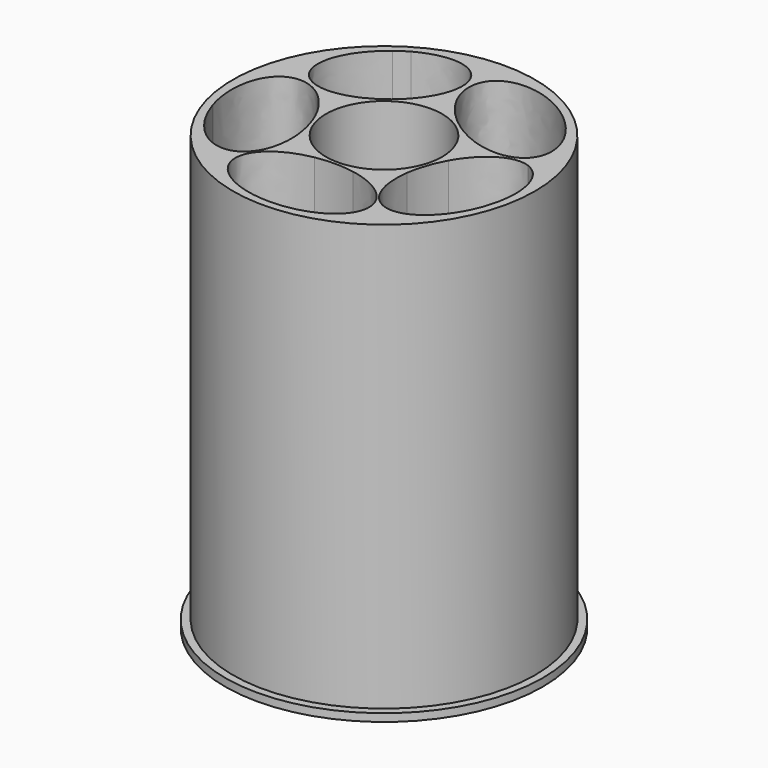
from build123d import *

# Parameters (mm, degrees)
F0_R     = 24.765
F0_R_2   = 9.525
F1_DEPTH = 69.85
F0_R_3   = 26.035
F2_DEPTH = 1.27


with BuildPart() as f1:
    # F0 (on Top) → F1 (new body)
    with BuildSketch(Plane.XY):
        Circle(F0_R)
        with BuildLine():
            ThreePointArc((-11.8438762985, 20.2913188143), (11.6992126095, 20.3750693083), (23.495, 0))
            ThreePointArc((23.495, 0), (23.3464270493, -2.6380616054), (22.9025872284, -5.242759125))
            add(Edge.make_bspline(
                [(22.3450728504, -7.2603542828), (22.6874542509, -6.2617589103), (22.9025872284, -5.242759125)],
                knots=[4.7287748222, 4.7287748222, 4.7287748222, 4.9233419702, 4.9233419702, 4.9233419702], degree=2, weights=[1, 0.995271684, 1]))
            ThreePointArc((22.3450728504, -7.2603542828), (13.8100144344, -19.0078543324), (-1.686e-07, -23.495))
            ThreePointArc((-1.686e-07, -23.495), (-13.8100145708, -19.0078542333), (-22.3450728504, -7.2603542828))
            ThreePointArc((-22.3450728504, -7.2603542828), (-22.3838222656, -7.1399948026), (-22.4219233818, -7.0194285279))
            ThreePointArc((-22.4219233818, -7.0194285279), (-22.3056762584, 7.3805034826), (-13.8100145026, 19.0078542828))
            add(Edge.make_bspline(
                [(-11.8438762985, 20.2913188143), (-12.8657967174, 19.7291263408), (-13.8100145026, 19.0078542828)],
                knots=[4.458011637, 4.458011637, 4.458011637, 4.6856427133, 4.6856427133, 4.6856427133], degree=2, weights=[1, 0.9935300005, 1]))
        make_face(mode=Mode.SUBTRACT)
        with BuildLine():
            ThreePointArc((-22.3450728504, -7.2603542828), (-13.8100145708, -19.0078542333), (-1.686e-07, -23.495))
            add(Edge.make_bspline(
                [(-3.16679104, -10.3200513327), (-12.2250157711, -11.998778469), (-10.8433736094, -17.7468891898), (-9.4617314476, -23.4949999106), (-1.686e-07, -23.495)],
                knots=[1.863892814, 1.863892814, 1.863892814, 3.2881408895, 3.2881408895, 4.712388965, 4.712388965, 4.712388965], degree=2, weights=[1, 0.7569756468, 1, 0.7569756468, 1]))
            ThreePointArc((-3.16679104, -10.3200513327), (-6.3468664898, -8.7320851324), (-8.8388084458, -6.1973776921))
            add(Edge.make_bspline(
                [(-12.569940649, -15.4547831044), (-7.8478387164, -13.9042973621), (-8.8388084458, -6.1973776921)],
                knots=[0, 0, 0, 1.2720675666, 1.2720675666, 1.2720675666], degree=2, weights=[1, 0.8044580494, 1]))
            add(Edge.make_bspline(
                [(-22.3450728504, -7.2603542828), (-18.9773492466, -17.5586334273), (-12.569940649, -15.4547831044)],
                knots=[4.7104616558, 4.7104616558, 4.7104616558, 6.2831853072, 6.2831853072, 6.2831853072], degree=2, weights=[1, 0.7064250408, 1]))
        make_face()
        with BuildLine():
            ThreePointArc((-1.686e-07, -23.495), (13.8100144344, -19.0078543324), (22.3450728504, -7.2603542828))
            add(Edge.make_bspline(
                [(8.7828810696, -6.2763863104), (7.5657386075, -15.1831667899), (13.4507924985, -15.6101408837), (19.3358463895, -16.0371149774), (22.3450728504, -7.2603542828)],
                knots=[1.8928856288, 1.8928856288, 1.8928856288, 3.3108302255, 3.3108302255, 4.7287748222, 4.7287748222, 4.7287748222], degree=2, weights=[1, 0.759031366, 1, 0.759031366, 1]))
            ThreePointArc((8.7828810696, -6.2763863104), (6.3076519074, -8.7604538932), (3.16679104, -10.3200513327))
            add(Edge.make_bspline(
                [(10.9608629718, -16.764), (10.9608629718, -11.7644977273), (3.16679104, -10.3200513327)],
                knots=[0, 0, 0, 1.2776998396, 1.2776998396, 1.2776998396], degree=2, weights=[1, 0.8027820499, 1]))
            add(Edge.make_bspline(
                [(-1.686e-07, -23.495), (10.9608629718, -23.4950001035), (10.9608629718, -16.764)],
                knots=[4.712388965, 4.712388965, 4.712388965, 6.2831853072, 6.2831853072, 6.2831853072], degree=2, weights=[1, 0.7071067757, 1]))
        make_face()
        with BuildLine():
            ThreePointArc((3.5063931355, 10.2096636663), (-0.1082951648, 10.7944567792), (-3.7105232282, 10.1372601019))
            add(Edge.make_bspline(
                [(-8.6819299405, 6.415303384), (-5.8376217277, 7.7579870896), (-3.7105232282, 10.1372601019)],
                knots=[1.2256506863, 1.2256506863, 1.2256506863, 1.832563988, 1.832563988, 1.832563988], degree=2, weights=[1, 0.9543092736, 1]))
            ThreePointArc((-8.6819299405, 6.415303384), (-10.285011057, 3.278806575), (-10.7930191038, -0.206793678))
            add(Edge.make_bspline(
                [(-8.8388084458, -6.1973776921), (-9.2475428738, -3.0185889667), (-10.7930191038, -0.206793678)],
                knots=[1.2720675666, 1.2720675666, 1.2720675666, 1.8633349383, 1.8633349383, 1.8633349383], degree=2, weights=[1, 0.9566177125, 1]))
            ThreePointArc((-8.8388084458, -6.1973776921), (-6.3468664898, -8.7320851324), (-3.16679104, -10.3200513327))
            add(Edge.make_bspline(
                [(3.16679104, -10.3200513327), (0, -9.7331617145), (-3.16679104, -10.3200513327)],
                knots=[1.2776998396, 1.2776998396, 1.2776998396, 1.863892814, 1.863892814, 1.863892814], degree=2, weights=[1, 0.9573538356, 1]))
            ThreePointArc((3.16679104, -10.3200513327), (6.3076519074, -8.7604538932), (8.7828810696, -6.2763863104))
            add(Edge.make_bspline(
                [(10.7908382065, -0.2997262099), (9.2152551173, -3.1123682534), (8.7828810696, -6.2763863104)],
                knots=[1.30135543, 1.30135543, 1.30135543, 1.8928856288, 1.8928856288, 1.8928856288], degree=2, weights=[1, 0.9565794174, 1]))
            ThreePointArc((10.7908382065, -0.2997262099), (10.7939595015, -0.1498775512), (10.795, 0))
            ThreePointArc((10.795, 0), (10.2339456896, 3.4348770897), (8.6091027102, 6.5127087701))
            add(Edge.make_bspline(
                [(3.5063931355, 10.2096636663), (5.7143597451, 7.8906708199), (8.6091027102, 6.5127087701)],
                knots=[4.4167965362, 4.4167965362, 4.4167965362, 5.0011248099, 5.0011248099, 5.0011248099], degree=2, weights=[1, 0.9576227923, 1]))
        make_face()
        Circle(F0_R_2, mode=Mode.SUBTRACT)
        with BuildLine():
            ThreePointArc((3.5063931355, 10.2096636663), (-0.1082951648, 10.7944567792), (-3.7105232282, 10.1372601019))
            add(Edge.make_bspline(
                [(-8.6819299405, 6.415303384), (-5.8376217277, 7.7579870896), (-3.7105232282, 10.1372601019)],
                knots=[1.2256506863, 1.2256506863, 1.2256506863, 1.832563988, 1.832563988, 1.832563988], degree=2, weights=[1, 0.9543092736, 1]))
            ThreePointArc((-8.6819299405, 6.415303384), (-10.285011057, 3.278806575), (-10.7930191038, -0.206793678))
            add(Edge.make_bspline(
                [(-8.8388084458, -6.1973776921), (-9.2475428738, -3.0185889667), (-10.7930191038, -0.206793678)],
                knots=[1.2720675666, 1.2720675666, 1.2720675666, 1.8633349383, 1.8633349383, 1.8633349383], degree=2, weights=[1, 0.9566177125, 1]))
            ThreePointArc((-8.8388084458, -6.1973776921), (-6.3468664898, -8.7320851324), (-3.16679104, -10.3200513327))
            add(Edge.make_bspline(
                [(3.16679104, -10.3200513327), (0, -9.7331617145), (-3.16679104, -10.3200513327)],
                knots=[1.2776998396, 1.2776998396, 1.2776998396, 1.863892814, 1.863892814, 1.863892814], degree=2, weights=[1, 0.9573538356, 1]))
            ThreePointArc((3.16679104, -10.3200513327), (6.3076519074, -8.7604538932), (8.7828810696, -6.2763863104))
            add(Edge.make_bspline(
                [(10.7908382065, -0.2997262099), (9.2152551173, -3.1123682534), (8.7828810696, -6.2763863104)],
                knots=[1.30135543, 1.30135543, 1.30135543, 1.8928856288, 1.8928856288, 1.8928856288], degree=2, weights=[1, 0.9565794174, 1]))
            ThreePointArc((10.7908382065, -0.2997262099), (10.7939595015, -0.1498775512), (10.795, 0))
            ThreePointArc((10.795, 0), (10.2339456896, 3.4348770897), (8.6091027102, 6.5127087701))
            add(Edge.make_bspline(
                [(3.5063931355, 10.2096636663), (5.7143597451, 7.8906708199), (8.6091027102, 6.5127087701)],
                knots=[4.4167965362, 4.4167965362, 4.4167965362, 5.0011248099, 5.0011248099, 5.0011248099], degree=2, weights=[1, 0.9576227923, 1]))
        make_face()
        Circle(F0_R_2, mode=Mode.SUBTRACT)
        with BuildLine():
            ThreePointArc((22.9025872284, -5.242759125), (23.3464270493, -2.6380616054), (23.495, 0))
            ThreePointArc((23.495, 0), (11.6992126095, 20.3750693083), (-11.8438762985, 20.2913188143))
            add(Edge.make_bspline(
                [(-3.7105232282, 10.1372601019), (1.5221229716, 15.9902536933), (-1.717695614, 20.0349948783), (-4.9575141996, 24.0797360633), (-11.8438762985, 20.2913188143)],
                knots=[1.832563988, 1.832563988, 1.832563988, 3.1452878125, 3.1452878125, 4.458011637, 4.458011637, 4.458011637], degree=2, weights=[1, 0.7922175714, 1, 0.7922175714, 1]))
            ThreePointArc((-3.7105232282, 10.1372601019), (-0.1082951648, 10.7944567792), (3.5063931355, 10.2096636663))
            add(Edge.make_bspline(
                [(18.7252610922, 7.1632587351), (26.5345304959, 17.9899247505), (7.7332586813, 21.7534298504), (-11.0680131334, 25.5169349502), (3.5063931355, 10.2096636663)],
                knots=[0, 0, 0, 2.2083982681, 2.2083982681, 4.4167965362, 4.4167965362, 4.4167965362], degree=2, weights=[1, 0.4498498342, 1, 0.4498498342, 1]))
            add(Edge.make_bspline(
                [(8.6091027102, 6.5127087701), (15.7903166082, 3.0942911967), (18.7252610922, 7.1632587351)],
                knots=[5.0011248099, 5.0011248099, 5.0011248099, 6.2831853072, 6.2831853072, 6.2831853072], degree=2, weights=[1, 0.8014800725, 1]))
            ThreePointArc((8.6091027102, 6.5127087701), (10.2339456896, 3.4348770897), (10.795, 0))
            ThreePointArc((10.795, 0), (10.7939595015, -0.1498775512), (10.7908382065, -0.2997262099))
            add(Edge.make_bspline(
                [(19.5562373847, 5.0165709108), (14.7273083506, 6.7274382133), (10.7908382065, -0.2997262099)],
                knots=[0, 0, 0, 1.30135543, 1.30135543, 1.30135543], degree=2, weights=[1, 0.7956734719, 1]))
            add(Edge.make_bspline(
                [(22.9025872284, -5.242759125), (24.6849310711, 3.1994983734), (19.5562373847, 5.0165709108)],
                knots=[4.9233419702, 4.9233419702, 4.9233419702, 6.2831853072, 6.2831853072, 6.2831853072], degree=2, weights=[1, 0.7776219707, 1]))
        make_face()
        with BuildLine():
            add(Edge.make_bspline(
                [(-13.8100145026, 19.0078542828), (-22.2941343057, 12.5269781053), (-18.0050544441, 7.1091740392)],
                knots=[4.6856427133, 4.6856427133, 4.6856427133, 6.2831853072, 6.2831853072, 6.2831853072], degree=2, weights=[1, 0.6975876008, 1]))
            ThreePointArc((-13.8100145026, 19.0078542828), (-22.3056762584, 7.3805034826), (-22.4219233818, -7.0194285279))
            add(Edge.make_bspline(
                [(-10.7930191038, -0.206793678), (-15.1189374285, 7.6636585029), (-20.138934215, 4.7227619028), (-25.1589310014, 1.7818653028), (-22.4219233818, -7.0194285279)],
                knots=[1.8633349383, 1.8633349383, 1.8633349383, 3.2752049544, 3.2752049544, 4.6870749704, 4.6870749704, 4.6870749704], degree=2, weights=[1, 0.7610053021, 1, 0.7610053021, 1]))
            ThreePointArc((-10.7930191038, -0.206793678), (-10.285011057, 3.278806575), (-8.6819299405, 6.415303384))
            add(Edge.make_bspline(
                [(-18.0050544441, 7.1091740392), (-15.0688636244, 3.4002884332), (-8.6819299405, 6.415303384)],
                knots=[0, 0, 0, 1.2256506863, 1.2256506863, 1.2256506863], degree=2, weights=[1, 0.8180262014, 1]))
        make_face()
    extrude(amount=F1_DEPTH)


with BuildPart() as f2:
    # F0 (on Top) → F2 (new body)
    with BuildSketch(Plane.XY):
        Circle(F0_R_3)
        Circle(F0_R, mode=Mode.SUBTRACT)
    extrude(amount=-F2_DEPTH)


solid = Compound([f1.part, f2.part])
